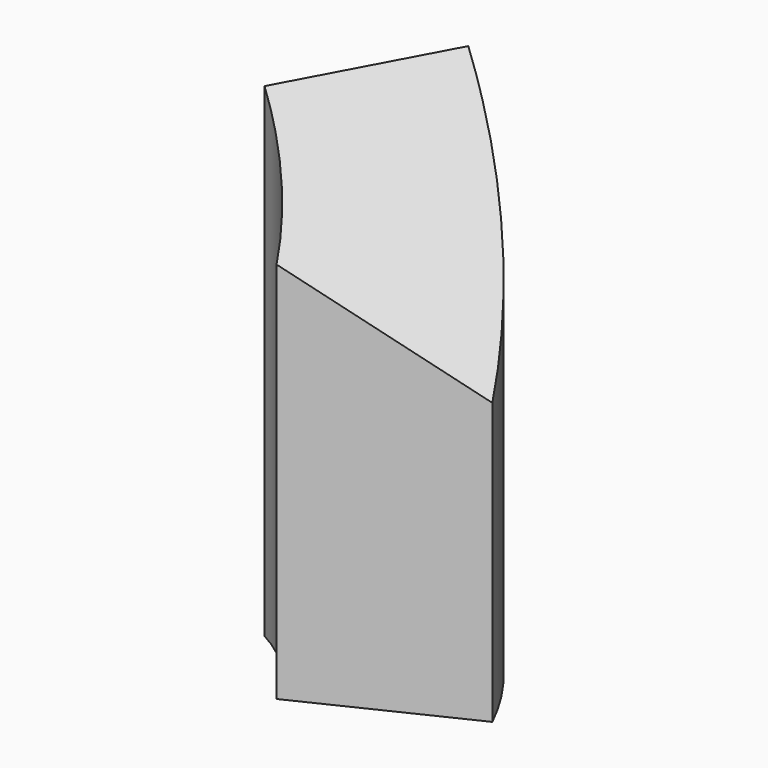
from build123d import *

# Parameters (mm, degrees)
F1_DEPTH = 35
F3_W     = 29.295783
F3_H     = 24.456017
F4_DEPTH = 25


with BuildPart() as f1:
    # F0 (on Top) → F1 (new body)
    with BuildSketch(Plane.XY):
        with BuildLine():
            Line((11.851723, 22.012194), (5.925861, 11.006097))
            ThreePointArc((5.925861, 11.006097), (9.0369, 8.636228), (11.263344, 5.420985))
            Line((11.263344, 5.420985), (22.526688, 10.841971))
            ThreePointArc((22.526688, 10.841971), (18.0738, 17.272456), (11.851723, 22.012194))
        make_face()
    extrude(amount=F1_DEPTH)

    # F3 (on face) → F4 (cut)
    with BuildSketch(Plane(origin=(15.408536, -8.296206, 17.5), x_dir=(0.782541, 0.266703, -0.562582), z_dir=(0.622599, -0.335217, 0.707107))):
        with Locations((-3.494601, 24.403315)):
            Rectangle(F3_W, F3_H)
    extrude(amount=F4_DEPTH, mode=Mode.SUBTRACT)


solid = f1.part
